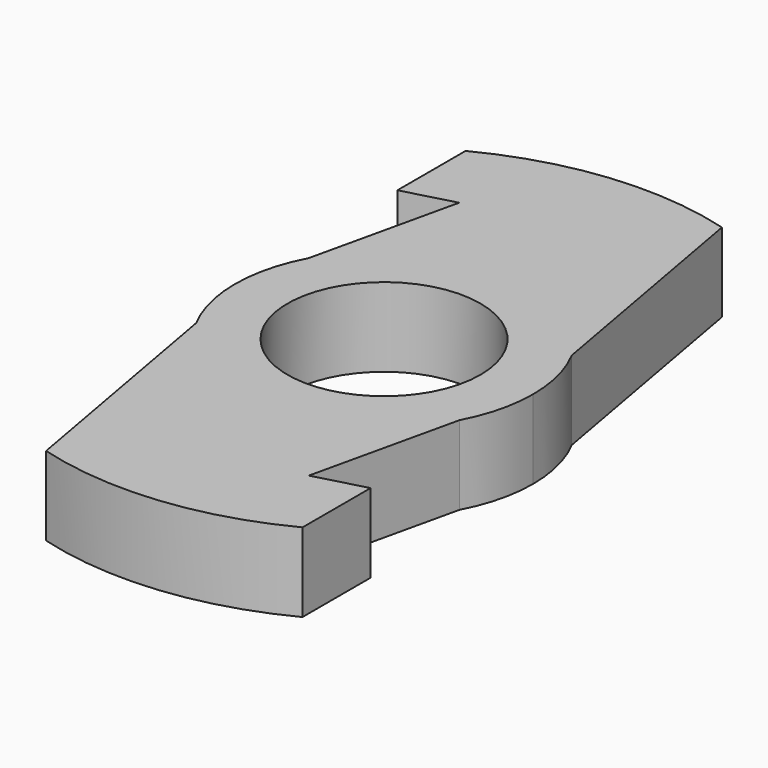
from build123d import *

# Parameters (mm, degrees)
F0_R     = 11
F1_DEPTH = 9


with BuildPart() as f1:
    # F0 (on Top) → F1 (new body)
    with BuildSketch(Plane.XY):
        with BuildLine():
            ThreePointArc((10.028384, 35.615046), (-3.747507, 36.80973), (-17, 32.863353))
            Line((-17, 32.863353), (-17, 23.161111))
            Line((-17, 23.161111), (-11.204445, 24.714026))
            Line((-11.204445, 24.714026), (-15, 8))
            ThreePointArc((-15, 8), (-16.492423, 4.123106), (-17, 0))
            ThreePointArc((-17, 0), (-16.492423, -4.123106), (-15, -8))
            Line((-15, -8), (-10.028384, -35.615046))
            ThreePointArc((-10.028384, -35.615046), (3.747507, -36.80973), (17, -32.863353))
            Line((17, -32.863353), (17, -23.161111))
            Line((17, -23.161111), (11.204445, -24.714026))
            Line((11.204445, -24.714026), (15, -8))
            ThreePointArc((15, -8), (16.492423, -4.123106), (17, 0))
            ThreePointArc((17, 0), (16.492423, 4.123106), (15, 8))
            Line((15, 8), (10.028384, 35.615046))
        make_face()
        Circle(F0_R, mode=Mode.SUBTRACT)
    extrude(amount=F1_DEPTH)


solid = f1.part
